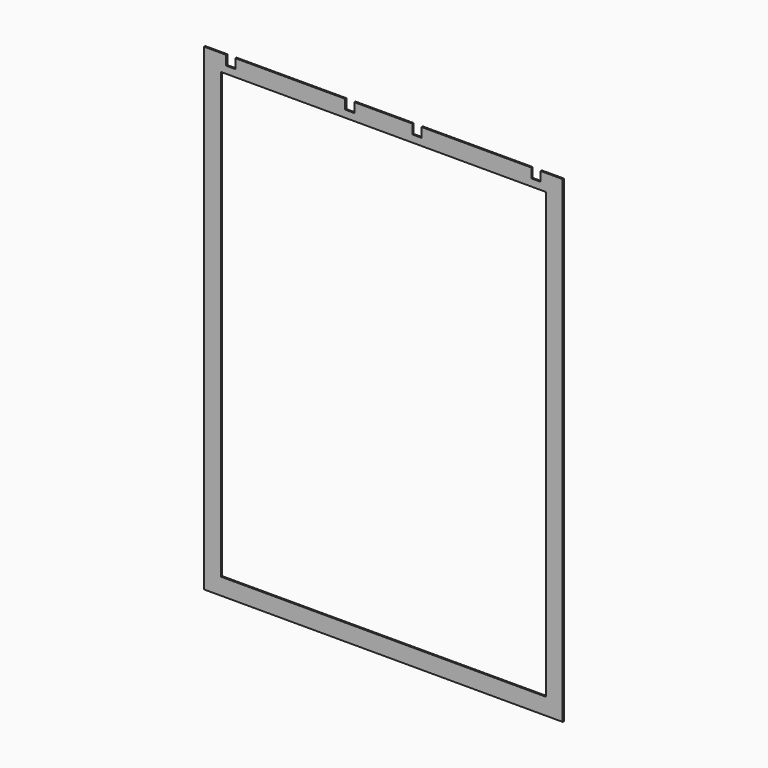
from build123d import *

# Parameters (mm, degrees)
F0_W     = 680
F0_H     = 930
F1_DEPTH = 3


with BuildPart() as f1:
    # F0 (on Front) → F1 (new body)
    with BuildSketch(Plane.XZ):
        Polygon((0, 1000), (0, 0), (750, 0), (750, 1000), (704, 1000), (704, 980), (685, 980), (685, 1000), (455, 1000), (455, 980), (436, 980), (436, 1000), (314, 1000), (314, 980), (295, 980), (295, 1000), (65, 1000), (65, 980), (46, 980), (46, 1000), align=None)
        with Locations((375, 500)):
            Rectangle(F0_W, F0_H, mode=Mode.SUBTRACT)
    extrude(amount=F1_DEPTH)


solid = f1.part
